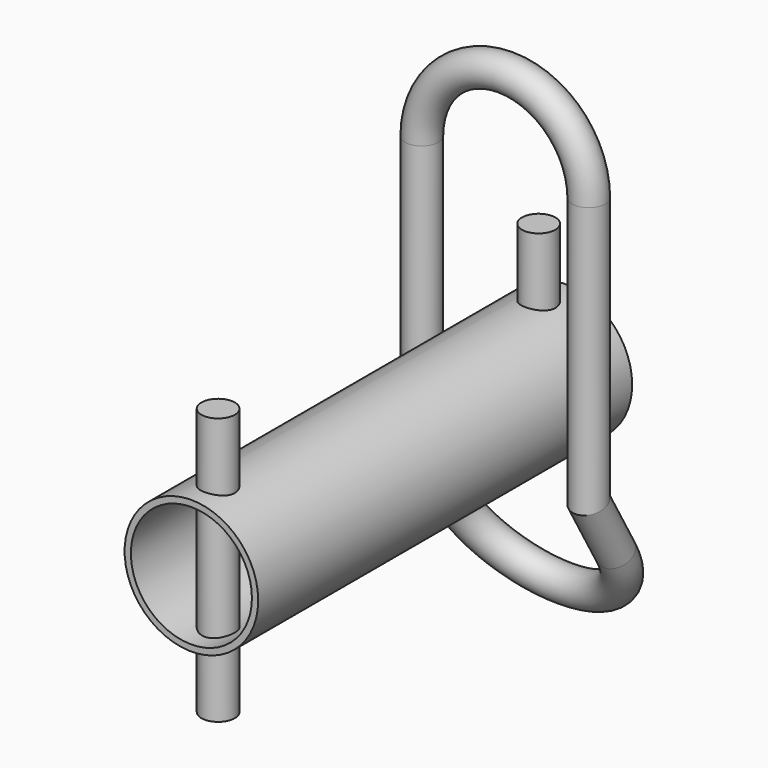
from build123d import *

# Parameters (mm, degrees)
F0_R     = 50.8
F0_R_2   = 46.0375
F1_DEPTH = 177.8
F2_R     = 12.7
F3_DEPTH = 101.6
F4_DEPTH = 46.0375
F5_R     = 12.7
F6_DEPTH = 101.6
F11_R    = 12.7


with BuildPart() as f1:
    # F0 (on Front) → F1 (new body, symmetric)
    with BuildSketch(Plane.XZ):
        Circle(F0_R)
        Circle(F0_R_2, mode=Mode.SUBTRACT)
    extrude(amount=F1_DEPTH, both=True)



with BuildPart() as f3:
    # F2 (on Top) → F3 (new body)
    with BuildSketch(Plane.XY):
        with Locations((0, 152.4)):
            Circle(F2_R)
    extrude(amount=F3_DEPTH)


with BuildPart() as f1_1:
    add(f1.part)
    # F4 (add, through all): a face of the model
    f4_faces = [f3.part.faces().sort_by_distance(p)[0] for p in [
        (0, 152.4, 0),
    ]]

    add(f3.part)  # F4 merges F3
    extrude(f4_faces, amount=F4_DEPTH)

    # F5 (on Top) → F6 (join, symmetric)
    with BuildSketch(Plane.XY):
        with Locations((0, -152.4)):
            Circle(F5_R)
    extrude(amount=F6_DEPTH, both=True)


with BuildPart() as f12:
    # F12: sweep along a path in F8, F10, F8
    with BuildLine(Plane.XZ.offset(-120.65)) as f12_path:
        Line((-63.5, 0), (-63.5, 152.4))
        ThreePointArc((-63.5, 152.4), (0, 215.9), (63.5, 152.4))
        Line((63.5, 152.4), (63.5, 0))
        Line((63.5, 0), (63.5, -50.8))
    with BuildLine(Plane(origin=(0, 68.4904547439, 39.5429824833), x_dir=(1, 0, 0), z_dir=(0, -0.8660254038, -0.5))) as f12_path_2:
        Line((63.5, -104.3190905122), (63.5, -155.1190905122))
        ThreePointArc((63.5, -155.1190905122), (0, -218.6190905122), (-63.5, -155.1190905122))
        Line((-63.5, -155.1190905122), (-63.5, -104.3190905122))
    with BuildLine(Plane.XZ.offset(-120.65)) as f12_path_3:
        Line((-63.5, 0), (-63.5, -50.8))
    # F11 (on Top) → F12 (sweep)
    with BuildSketch(Plane.XY):
        with Locations((-63.5, 120.65)):
            Circle(F11_R)
    sweep(path=f12_path.line + f12_path_2.line + f12_path_3.line, transition=Transition.RIGHT)


solid = Compound([f1_1.part, f12.part])
